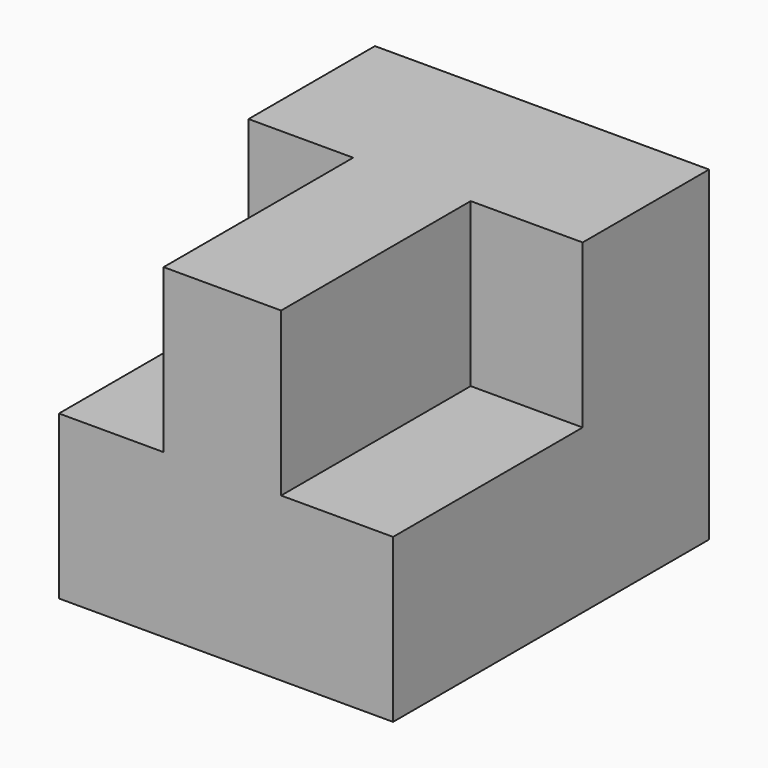
from build123d import *

# Parameters (mm, degrees)
F0_W     = 107.4360646307
F0_H     = 104.7522984445
F1_DEPTH = 50.8
F2_W     = 36.004498601
F2_H     = 52.3761492223
F2_W_2   = 33.6490664631
F3_DEPTH = 76.2


with BuildPart() as f1:
    # F0 (on Front) → F1 (new body)
    with BuildSketch(Plane.XZ):
        with Locations((-0.7114093751, -0.4807729274)):
            Rectangle(F0_W, F0_H)
    extrude(amount=-F1_DEPTH)

    # F2 (on face) → F3 (join)
    with BuildSketch(Plane.XZ):
        Polygon((17.0021243393, 51.8953762949), (-20.7803752273, 51.8953762949), (-20.7803752273, -0.4807729274), (-20.7803752273, -52.8569221497), (17.0021243393, -52.8569221497), (17.0021243393, -0.4807729274), align=None)
        with Locations((35.0043736398, -26.6688475385)):
            Rectangle(F2_W, F2_H)
        with Locations((-37.6049084589, -26.6688475385)):
            Rectangle(F2_W_2, F2_H)
    extrude(amount=F3_DEPTH)


solid = f1.part
